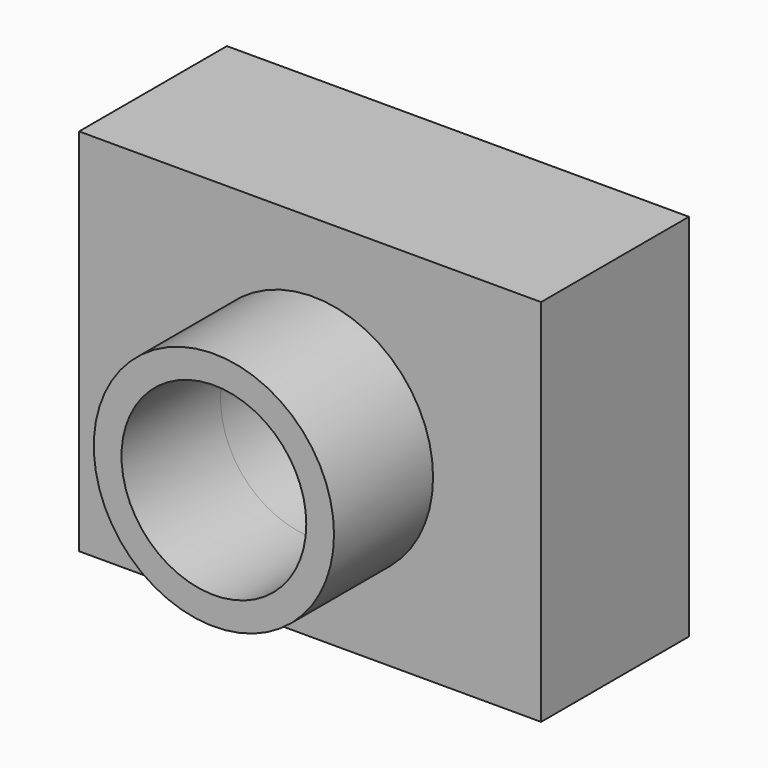
from build123d import *

# Parameters (mm, degrees)
F0_W     = 63.5
F0_H     = 50.8
F1_DEPTH = 25.4
F2_R     = 12.7
F3_DEPTH = 25.401
F4_R     = 16.51
F4_R_2   = 12.7
F5_DEPTH = 17.018


with BuildPart() as f1:
    # F0 (on Front) → F1 (new body)
    with BuildSketch(Plane.XZ):
        with Locations((-0.3941375762, -5.669991883)):
            Rectangle(F0_W, F0_H)
    extrude(amount=F1_DEPTH)

    # F2 (on face) → F3 (cut, through all)
    with BuildSketch(Plane.XZ.offset(25.4)):
        with Locations((0, -6.3062068075)):
            Circle(F2_R)
    extrude(amount=-F3_DEPTH, mode=Mode.SUBTRACT)

    # F4 (on face) → F5 (join)
    with BuildSketch(Plane.XZ.offset(25.4)):
        with Locations((0, -6.3062068075)):
            Circle(F4_R)
        with Locations((0, -6.3062068075)):
            Circle(F4_R_2, mode=Mode.SUBTRACT)
    extrude(amount=F5_DEPTH)


solid = f1.part
